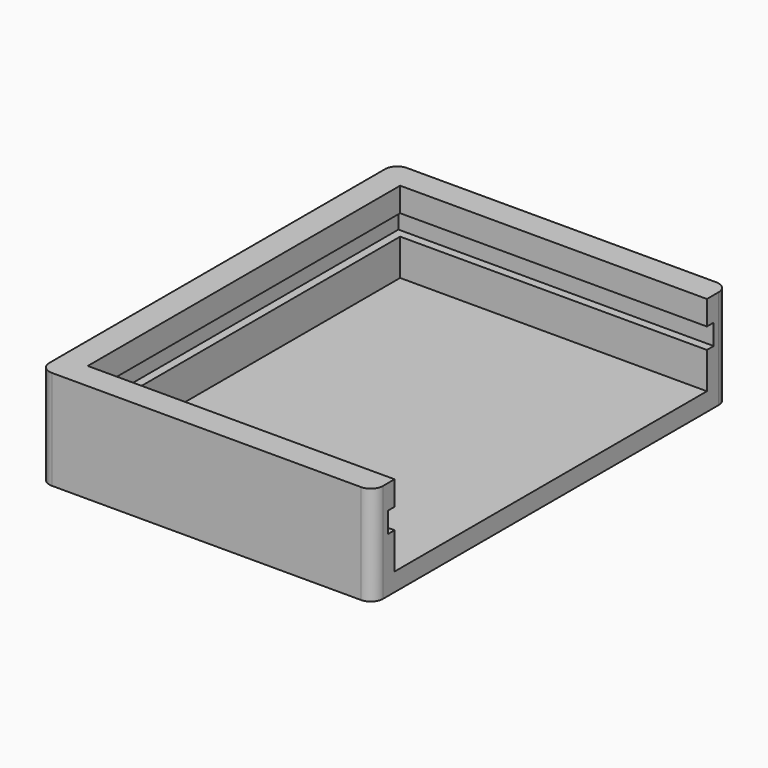
from build123d import *

# Parameters (mm, degrees)
BOX027_W     = 26
BOX027_H     = 33.6
BOX027_DEPTH = 1.7
BOX026_W     = 26.1
BOX026_H     = 32.2
BOX026_DEPTH = 6.7
BOX025_W     = 27.5
BOX025_H     = 36.6
BOX025_DEPTH = 8.2
FILLET001_R  = 1


with BuildPart() as pcb_extract_cube001:
    # Box027 → Box027 (new body)
    with BuildSketch(Plane(origin=(1.5, 1.5, 4.5), x_dir=(1, 0, 0), z_dir=(0, 0, 1))):
        with Locations((13, 16.8)):
            Rectangle(BOX027_W, BOX027_H)
    extrude(amount=BOX027_DEPTH)


with BuildPart() as extract_fusion001:
    # Box026 → Box026 (new body)
    with BuildSketch(Plane(origin=(2.2, 2.2, 1.5), x_dir=(1, 0, 0), z_dir=(0, 0, 1))):
        with Locations((13.05, 16.1)):
            Rectangle(BOX026_W, BOX026_H)
    extrude(amount=BOX026_DEPTH)

    # Fusion003: union pcb extract cube001
    add(pcb_extract_cube001.part)


with BuildPart() as lion_manager_cut:
    # Box025 → Box025 (new body)
    with BuildSketch(Plane.XY):
        with Locations((13.75, 18.3)):
            Rectangle(BOX025_W, BOX025_H)
    extrude(amount=BOX025_DEPTH)

    # Fillet001
    fillet001_edges = [lion_manager_cut.edges().sort_by_distance(p)[0] for p in [
        (0, 0, 4.1),
        (0, 36.6, 4.1),
        (27.5, 0, 4.1),
        (27.5, 36.6, 4.1),
    ]]
    fillet(fillet001_edges, radius=FILLET001_R)

    # Cut002: cut extract fusion001
    add(extract_fusion001.part, mode=Mode.SUBTRACT)


with BuildPart() as lion_manager_cut_1:
    # Cut002 placement: moved
    add(lion_manager_cut.part.moved(Location((-26, -1, -1))))


solid = lion_manager_cut_1.part
